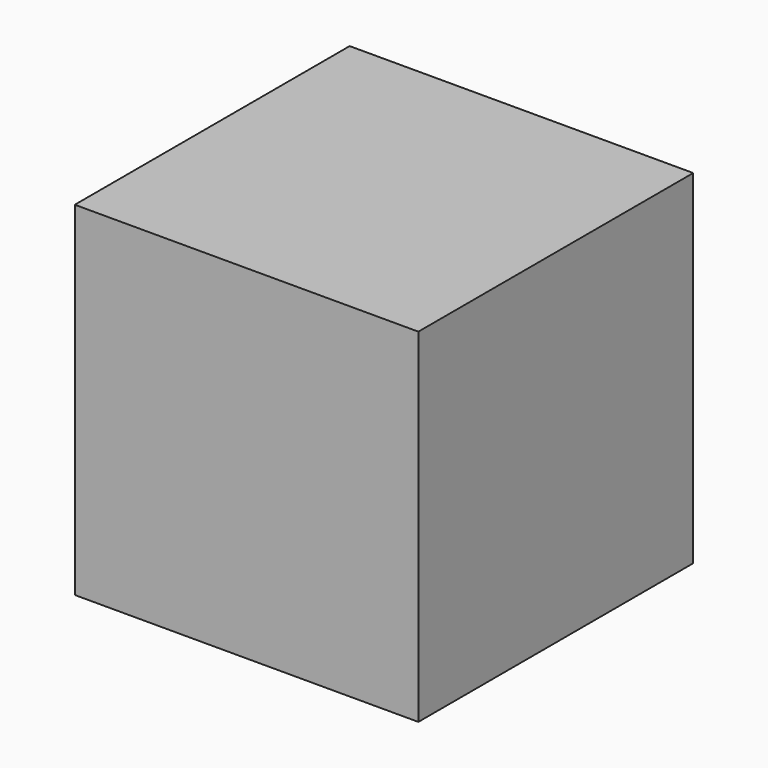
from build123d import *

# Parameters (mm, degrees)
BOX_W     = 42
BOX_H     = 42
BOX_DEPTH = 42


with BuildPart() as part:
    # Box → Box (new body)
    with BuildSketch(Plane.XY):
        with Locations((21, 21)):
            Rectangle(BOX_W, BOX_H)
    extrude(amount=BOX_DEPTH)


solid = part.part
